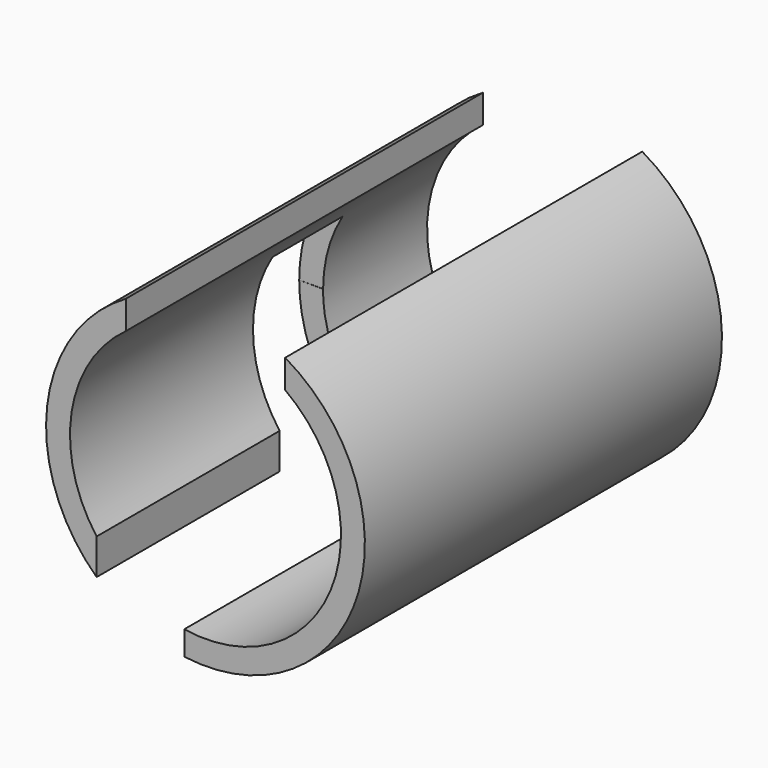
from build123d import *

# Parameters (mm, degrees)
F0_R     = 25.4
F0_R_2   = 21.59
F1_DEPTH = 71.12
F3_DEPTH = 25.4
F4_W     = 13.97
F4_H     = 11.162907
F5_DEPTH = 25.4
F6_W     = 25.4
F6_H     = 71.12
F7_DEPTH = 25.4


with BuildPart() as f1:
    # F0 (on Front) → F1 (new body)
    with BuildSketch(Plane.XZ):
        Circle(F0_R)
        Circle(F0_R_2, mode=Mode.SUBTRACT)
    extrude(amount=F1_DEPTH)

    # F2 (on Top) → F3 (cut)
    with BuildSketch(Plane.XY):
        Polygon((-17.346008, -34.671), (-17.346008, -71.12), (-3.376008, -71.12), (-3.376008, -34.671), (-3.376008, -20.844901), (-25.586616, -20.701003), (-25.596492, -34.671), align=None)
    extrude(amount=-F3_DEPTH, mode=Mode.SUBTRACT)

    # F4 (on Right) → F5 (cut)
    with BuildSketch(Plane.YZ):
        with Locations((-27.686, 5.581453)):
            Rectangle(F4_W, F4_H)
    extrude(amount=-F5_DEPTH, mode=Mode.SUBTRACT)

    # F6 (on Top) → F7 (cut)
    with BuildSketch(Plane.XY):
        with Locations((0, -35.56)):
            Rectangle(F6_W, F6_H)
    extrude(amount=F7_DEPTH, mode=Mode.SUBTRACT)


solid = f1.part
